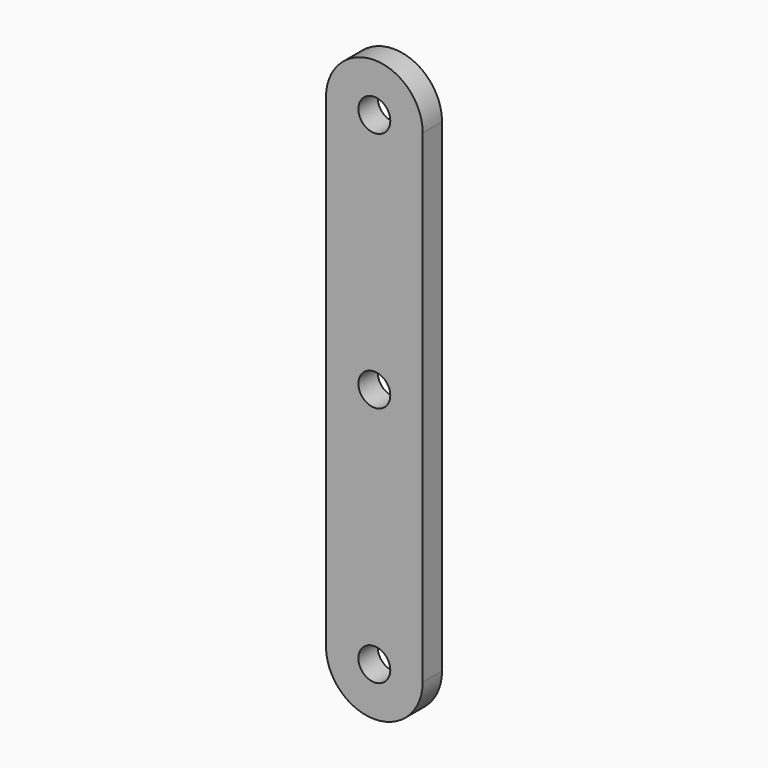
from build123d import *

# Parameters (mm, degrees)
F0_R     = 4.191
F1_DEPTH = 6.35


with BuildPart() as f1:
    # F0 (on Front) → F1 (new body)
    with BuildSketch(Plane.XZ):
        with BuildLine():
            Line((4.191, 63.5), (12.7, 63.5))
            ThreePointArc((12.7, 63.5), (0, 76.2), (-12.7, 63.5))
            Line((-12.7, 63.5), (-4.191, 63.5))
            ThreePointArc((-4.191, 63.5), (0, 67.691), (4.191, 63.5))
        make_face()
        with BuildLine():
            ThreePointArc((-12.7, 63.5), (0, 50.8), (12.7, 63.5))
            Line((12.7, 63.5), (4.191, 63.5))
            ThreePointArc((4.191, 63.5), (0, 59.309), (-4.191, 63.5))
            Line((-4.191, 63.5), (-12.7, 63.5))
        make_face()
        with BuildLine():
            Line((12.7, -63.5), (12.7, 63.5))
            ThreePointArc((12.7, 63.5), (0, 50.8), (-12.7, 63.5))
            Line((-12.7, 63.5), (-12.7, -63.5))
            ThreePointArc((-12.7, -63.5), (0, -50.8), (12.7, -63.5))
        make_face()
        Circle(F0_R, mode=Mode.SUBTRACT)
        with BuildLine():
            ThreePointArc((-12.7, -63.5), (0, -76.2), (12.7, -63.5))
            Line((12.7, -63.5), (4.191, -63.5))
            ThreePointArc((4.191, -63.5), (0, -67.691), (-4.191, -63.5))
            Line((-4.191, -63.5), (-12.7, -63.5))
        make_face()
        with BuildLine():
            Line((4.191, -63.5), (12.7, -63.5))
            ThreePointArc((12.7, -63.5), (0, -50.8), (-12.7, -63.5))
            Line((-12.7, -63.5), (-4.191, -63.5))
            ThreePointArc((-4.191, -63.5), (0, -59.309), (4.191, -63.5))
        make_face()
    extrude(amount=F1_DEPTH)


solid = f1.part
